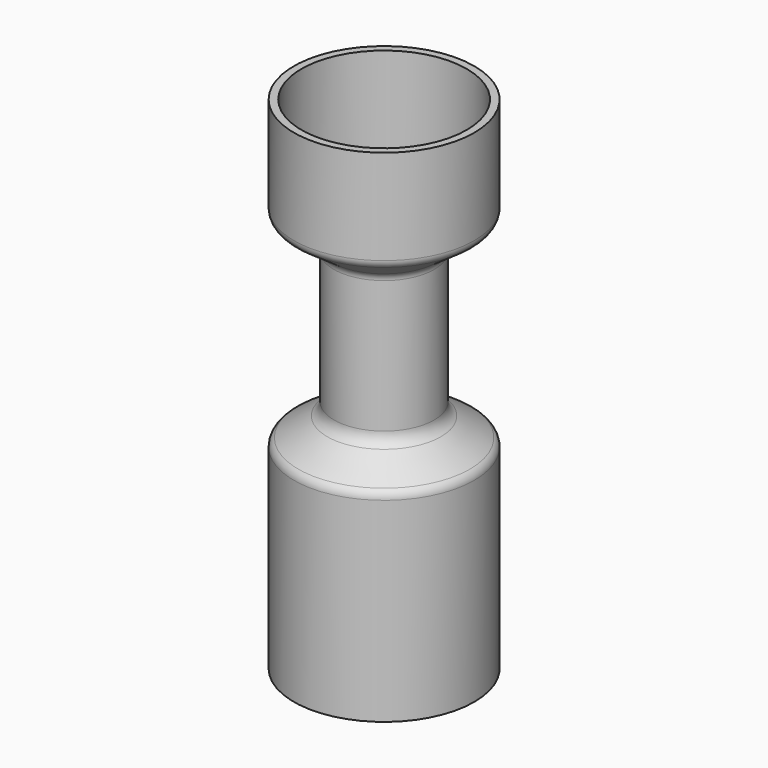
from build123d import *


with BuildPart() as part:
    # Sketch → Revolve (revolve)
    with BuildSketch(Plane.XZ):
        with BuildLine():
            Line((18, 0), (18, 38.927282))
            ThreePointArc((18, 38.927282), (17.762487, 39.872608), (17.10636, 40.593406))
            Line((11.34046, 44.42215), (17.10636, 40.593406))
            ThreePointArc((10, 46.921335), (10.35627, 45.503347), (11.34046, 44.42215))
            Line((10, 73.35583), (10, 46.921335))
            ThreePointArc((10.852636, 74.993986), (10.225919, 74.279213), (10, 73.35583))
            Line((10.852636, 74.993986), (17.147364, 79.402814))
            ThreePointArc((17.147364, 79.402814), (17.774081, 80.117587), (18, 81.04097))
            Line((18, 81.04097), (18, 100))
            Line((18, 100), (16.5, 100))
            Line((16.5, 100), (16.5, 81.04097))
            ThreePointArc((15.647364, 79.402814), (16.274081, 80.117587), (16.5, 81.04097))
            Line((15.647364, 79.402814), (9.352636, 74.993986))
            ThreePointArc((9.352636, 74.993986), (8.725919, 74.279213), (8.5, 73.35583))
            Line((8.5, 73.35583), (8.5, 46.921335))
            ThreePointArc((8.5, 46.921335), (8.85627, 45.503347), (9.84046, 44.42215))
            Line((15.60636, 40.593406), (9.84046, 44.42215))
            ThreePointArc((16.5, 38.927282), (16.262487, 39.872608), (15.60636, 40.593406))
            Line((16.5, 0), (16.5, 38.927282))
            Line((18, 0), (16.5, 0))
        make_face()
    revolve(axis=Axis((0, 0, 0), (0, 0, 1)))


solid = part.part
